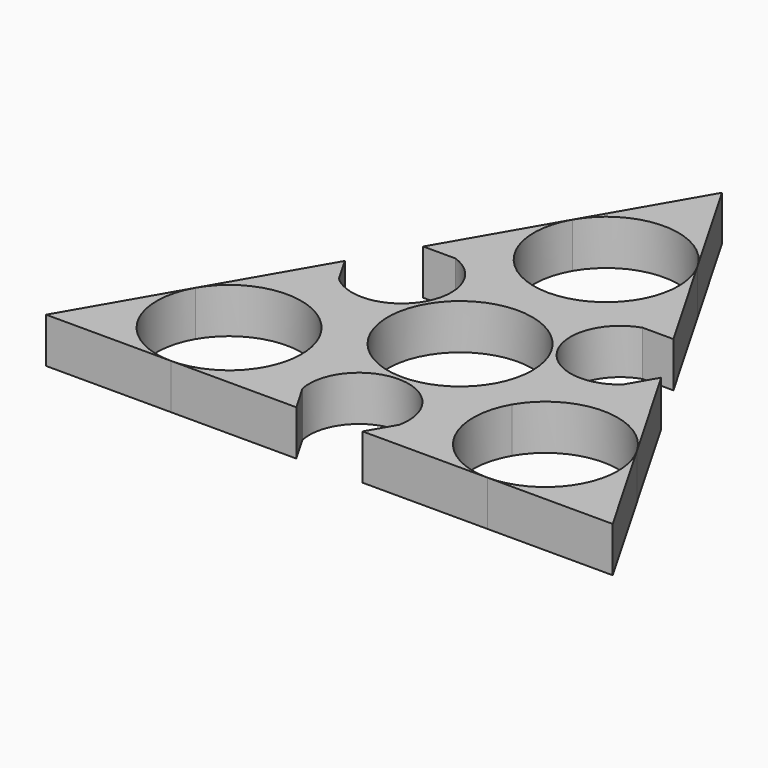
from build123d import *

# Parameters (mm, degrees)
F1_DEPTH = 7
F0_R     = 11.2


with BuildPart() as f1:
    # F0 (on Top) → F1 (new body)
    with BuildSketch(Plane.XY):
        with BuildLine():
            Line((0.017817163, 50.70805789), (-9.6950270976, 33.915778376))
            ThreePointArc((-9.6950270976, 33.915778376), (0.0089093351, 39.5080614323), (9.7039364318, 33.9003469546))
            Line((9.7039364318, 33.9003469546), (0.017817163, 50.70805789))
        make_face()
    extrude(amount=F1_DEPTH)


with BuildPart() as f1b:
    # F0 (on Top) → F1, piece 2 (new body)
    with BuildSketch(Plane.XY):
        with BuildLine():
            Line((14.6211081289, 17.0964316673), (19.3900543266, 17.0926384031))
            ThreePointArc((19.3900543266, 17.0926384031), (17.0058822943, 17.473040229), (14.6211081289, 17.0964316673))
        make_face()
        with BuildLine():
            ThreePointArc((-14.4253563092, 17.1195354957), (-16.9162844819, 17.5356654608), (-19.4078714897, 17.1234986347))
            Line((-19.4078714897, 17.1234986347), (-14.4253563092, 17.1195354957))
        make_face()
        with BuildLine():
            ThreePointArc((-24.4565133276, 8.2459276768), (-23.5938649563, 5.9909732168), (-22.0753252919, 4.1140024881))
            Line((-22.0753252919, 4.1140024881), (-24.4565133276, 8.2459276768))
        make_face()
        with BuildLine():
            Line((-5.084276164, -25.3694918101), (-7.5721015751, -21.0525255196))
            ThreePointArc((-7.5721015751, -21.0525255196), (-6.6870166098, -23.4177975787), (-5.084276164, -25.3694918101))
        make_face()
        with BuildLine():
            ThreePointArc((5.1282467285, -25.3029584173), (6.6497703895, -23.4284057834), (7.5160048905, -21.174826493))
            Line((7.5160048905, -21.174826493), (5.1282467285, -25.3029584173))
        make_face()
        with BuildLine():
            Line((24.5539353812, 8.2816008379), (22.0592456119, 3.9685976864))
            ThreePointArc((22.0592456119, 3.9685976864), (23.6650888193, 5.9177397804), (24.5539353812, 8.2816008379))
        make_face()
        with BuildLine():
            Line((-9.6950270976, 33.915778376), (-19.4078714897, 17.1234986347))
            ThreePointArc((-19.4078714897, 17.1234986347), (-16.9162844819, 17.5356654608), (-14.4253563092, 17.1195354957))
            Line((-14.4253563092, 17.1195354957), (-0.008908689, 17.108068519))
            ThreePointArc((-0.008908689, 17.108068519), (-9.7039358045, 22.7157819088), (-9.6950270976, 33.915778376))
        make_face()
        with BuildLine():
            Line((19.3900543266, 17.0926384031), (9.7039364318, 33.9003469546))
            ThreePointArc((9.7039364318, 33.9003469546), (10.819521432, 31.2025348725), (11.2, 28.3080649759))
            ThreePointArc((11.2, 28.3080649759), (7.9164456255, 20.3853199555), (-0.008908689, 17.108068519))
            Line((-0.008908689, 17.108068519), (14.6211081289, 17.0964316673))
            ThreePointArc((14.6211081289, 17.0964316673), (17.0058822943, 17.473040229), (19.3900543266, 17.0926384031))
        make_face()
        with BuildLine():
            Line((-14.7703940663, -8.5617832457), (-22.0753252919, 4.1140024881))
            ThreePointArc((-22.0753252919, 4.1140024881), (-23.5938649563, 5.9909732168), (-24.4565133276, 8.2459276768))
            Line((-24.4565133276, 8.2459276768), (-34.1693577364, -8.5463520935))
            ThreePointArc((-34.1693577364, -8.5463520935), (-24.465421311, -2.9540687807), (-14.7703940663, -8.5617832457))
        make_face()
        with BuildLine():
            Line((-7.5721015751, -21.0525255196), (-14.7703940663, -8.5617832457))
            ThreePointArc((-14.7703940663, -8.5617832457), (-13.6548090605, -11.2595953335), (-13.2743304906, -14.1540652373))
            ThreePointArc((-13.2743304906, -14.1540652373), (-16.557884868, -22.0768102606), (-24.4832391879, -25.3540616942))
            Line((-24.4832391879, -25.3540616942), (-5.084276164, -25.3694918101))
            ThreePointArc((-5.084276164, -25.3694918101), (-6.6870166098, -23.4177975787), (-7.5721015751, -21.0525255196))
        make_face()
        with BuildLine():
            ThreePointArc((24.5272095209, -25.3183885331), (14.8321824486, -19.7106752038), (14.8410910465, -8.5106788041))
            Line((14.8410910465, -8.5106788041), (7.5160048905, -21.174826493))
            ThreePointArc((7.5160048905, -21.174826493), (6.6497703895, -23.4284057834), (5.1282467285, -25.3029584173))
            Line((5.1282467285, -25.3029584173), (24.5272095209, -25.3183885331))
        make_face()
        with BuildLine():
            ThreePointArc((24.5539353812, 8.2816008379), (23.6650888193, 5.9177397804), (22.0592456119, 3.9685976864))
            Line((22.0592456119, 3.9685976864), (14.8410910465, -8.5106788041))
            ThreePointArc((14.8410910465, -8.5106788041), (24.5450275316, -2.9183956197), (34.2400547022, -8.5261101882))
            Line((34.2400547022, -8.5261101882), (24.5539353812, 8.2816008379))
        make_face()
        with BuildLine():
            Line((-0.008908689, 17.108068519), (-14.4253563092, 17.1195354957))
            ThreePointArc((-14.4253563092, 17.1195354957), (-10.285438835, 5.9317435531), (-22.0753252919, 4.1140024881))
            Line((-22.0753252919, 4.1140024881), (-14.7703940663, -8.5617832457))
            Line((-14.7703940663, -8.5617832457), (-7.5721015751, -21.0525255196))
            ThreePointArc((-7.5721015751, -21.0525255196), (0.0468517223, -11.873355846), (7.5160048905, -21.174826493))
            Line((7.5160048905, -21.174826493), (14.8410910465, -8.5106788041))
            Line((14.8410910465, -8.5106788041), (22.0592456119, 3.9685976864))
            ThreePointArc((22.0592456119, 3.9685976864), (10.3003748402, 5.9772199555), (14.6211081289, 17.0964316673))
            Line((14.6211081289, 17.0964316673), (-0.008908689, 17.108068519))
        make_face()
        Circle(F0_R, mode=Mode.SUBTRACT)
    extrude(amount=F1_DEPTH)


with BuildPart() as f1c:
    # F0 (on Top) → F1, piece 3 (new body)
    with BuildSketch(Plane.XY):
        with BuildLine():
            ThreePointArc((-24.4832391879, -25.3540616942), (-34.1782662232, -19.7463484291), (-34.1693577364, -8.5463520935))
            Line((-34.1693577364, -8.5463520935), (-43.8822019802, -25.3386315785))
            Line((-43.8822019802, -25.3386315785), (-24.4832391879, -25.3540616942))
        make_face()
    extrude(amount=F1_DEPTH)


with BuildPart() as f1d:
    # F0 (on Top) → F1, piece 4 (new body)
    with BuildSketch(Plane.XY):
        with BuildLine():
            Line((43.9261725448, -25.333818649), (34.2400547022, -8.5261101882))
            ThreePointArc((34.2400547022, -8.5261101882), (35.3556396637, -11.2239222301), (35.7361182182, -14.1183920761))
            ThreePointArc((35.7361182182, -14.1183920761), (32.4525638407, -22.0411370995), (24.5272095209, -25.3183885331))
            Line((24.5272095209, -25.3183885331), (43.9261725448, -25.333818649))
        make_face()
    extrude(amount=F1_DEPTH)


solid = Compound([f1.part, f1b.part, f1c.part, f1d.part])
